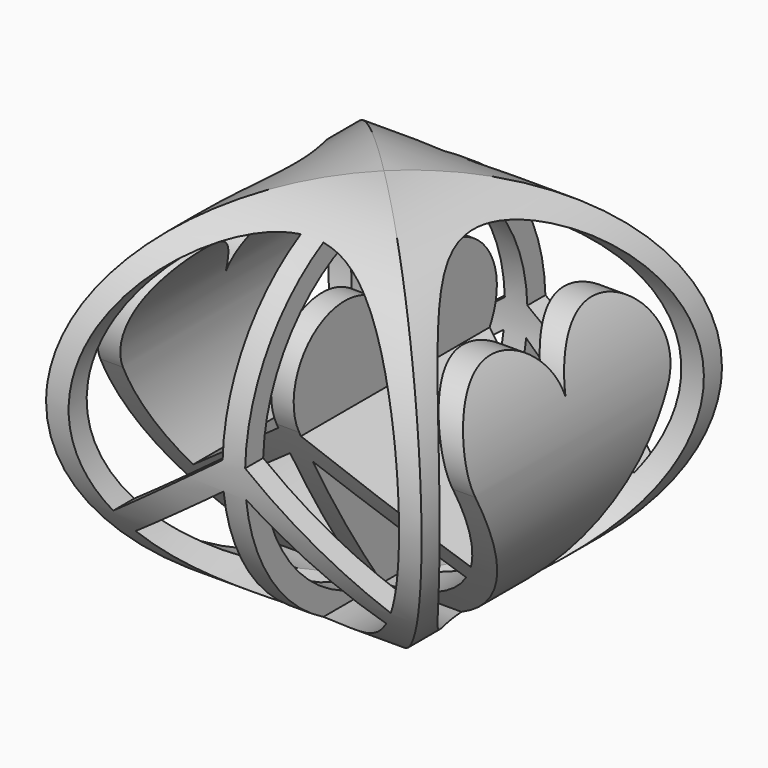
from build123d import *

# Parameters (mm, degrees)
F1_R     = 50
F2_DEPTH = 50
F0_R     = 50
F3_DEPTH = 75


with BuildPart() as f2:
    # F1 (on Right) → F2 (new body, symmetric)
    with BuildSketch(Plane.YZ):
        Circle(F1_R)
        with BuildLine():
            ThreePointArc((-4.394985, -43.779951), (0, 44), (4.394985, -43.779951))
            ThreePointArc((4.394985, -43.779951), (19.001349, -21.036087), (32.003709, 2.661336))
            ThreePointArc((32.003709, 2.661336), (21.937188, 26.533744), (0, 12.750185))
            ThreePointArc((0, 12.750185), (-21.937188, 26.533744), (-32.003709, 2.661336))
            ThreePointArc((-32.003709, 2.661336), (-19.001349, -21.036087), (-4.394985, -43.779951))
        make_face(mode=Mode.SUBTRACT)
        Circle(F1_R)
        with BuildLine():
            ThreePointArc((-4.394985, -43.779951), (0, 44), (4.394985, -43.779951))
            ThreePointArc((4.394985, -43.779951), (19.001349, -21.036087), (32.003709, 2.661336))
            ThreePointArc((32.003709, 2.661336), (21.937188, 26.533744), (0, 12.750185))
            ThreePointArc((0, 12.750185), (-21.937188, 26.533744), (-32.003709, 2.661336))
            ThreePointArc((-32.003709, 2.661336), (-19.001349, -21.036087), (-4.394985, -43.779951))
        make_face(mode=Mode.SUBTRACT)
    extrude(amount=F2_DEPTH, both=True)

    # F0 (on Front) → F3 (intersect, symmetric)
    with BuildSketch(Plane.XZ):
        Circle(F0_R)
        with BuildLine():
            ThreePointArc((-3, -43.897608), (-19.721427, -39.332751), (-33.382324, -28.663922))
            Line((-33.382324, -28.663922), (-3, -5.983251))
            Line((-3, -5.983251), (-3, -43.897608))
        make_face(mode=Mode.SUBTRACT)
        with BuildLine():
            ThreePointArc((33.382324, -28.663922), (19.721427, -39.332751), (3, -43.897608))
            Line((3, -43.897608), (3, -5.983251))
            Line((3, -5.983251), (33.382324, -28.663922))
        make_face(mode=Mode.SUBTRACT)
        with BuildLine():
            ThreePointArc((-36.971572, -23.855877), (-39.332751, 19.721427), (-3, 43.897608))
            Line((-3, 43.897608), (-3, 1.504199))
            Line((-3, 1.504199), (-36.971572, -23.855877))
        make_face(mode=Mode.SUBTRACT)
        with BuildLine():
            Line((3, 1.504199), (3, 43.897608))
            ThreePointArc((3, 43.897608), (39.332751, 19.721427), (36.971572, -23.855877))
            Line((36.971572, -23.855877), (3, 1.504199))
        make_face(mode=Mode.SUBTRACT)
    extrude(amount=F3_DEPTH, both=True, mode=Mode.INTERSECT)


solid = f2.part
